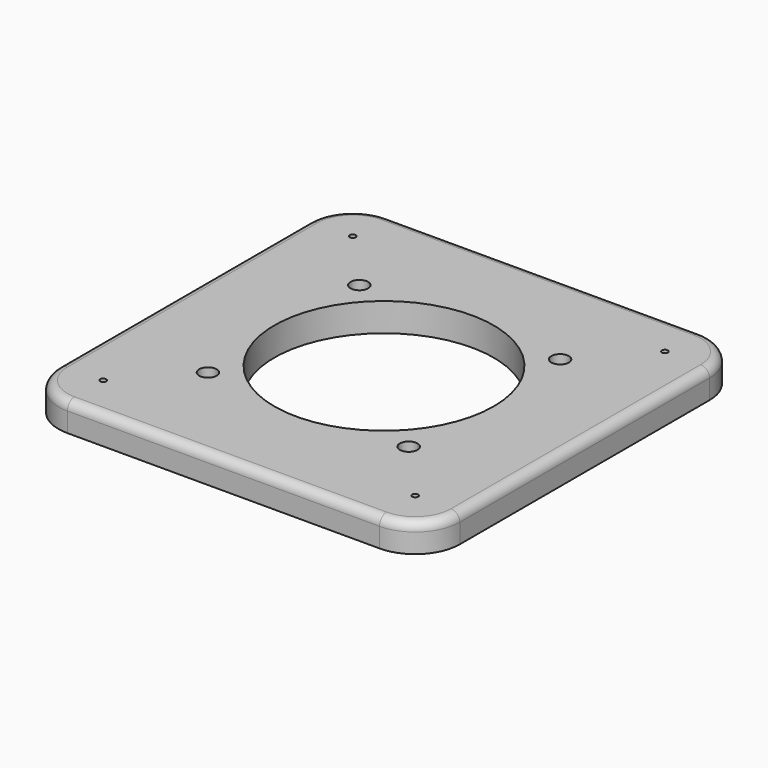
from build123d import *

# Parameters (mm, degrees)
F0_R     = 0.6858
F0_R_2   = 2
F0_R_3   = 25
F1_DEPTH = 6.47
F2_R     = 2.032


with BuildPart() as f1:
    # F0 (on Top) → F1 (new body)
    with BuildSketch(Plane.XY):
        with BuildLine():
            Line((35.567452, 45.626691), (-35.552548, 45.626691))
            ThreePointArc((-35.552548, 45.626691), (-42.736753, 42.650895), (-45.712548, 35.466691))
            Line((-45.712548, 35.466691), (-45.712548, -35.653309))
            ThreePointArc((-45.712548, -35.653309), (-42.736753, -42.837514), (-35.552548, -45.813309))
            Line((-35.552548, -45.813309), (35.567452, -45.813309))
            ThreePointArc((35.567452, -45.813309), (42.751657, -42.837514), (45.727452, -35.653309))
            Line((45.727452, -35.653309), (45.727452, 35.466691))
            ThreePointArc((45.727452, 35.466691), (42.751657, 42.650895), (35.567452, 45.626691))
        make_face()
        with Locations((-35.552548, -35.653309)):
            Circle(F0_R, mode=Mode.SUBTRACT)
        with Locations((-22.867128, -21.653564)):
            Circle(F0_R_2, mode=Mode.SUBTRACT)
        with Locations((35.567452, -35.653309)):
            Circle(F0_R, mode=Mode.SUBTRACT)
        with Locations((0.007452, -0.093309)):
            Circle(F0_R_3, mode=Mode.SUBTRACT)
        with Locations((22.882033, -21.653564)):
            Circle(F0_R_2, mode=Mode.SUBTRACT)
        with Locations((-22.867128, 21.466945)):
            Circle(F0_R_2, mode=Mode.SUBTRACT)
        with Locations((-35.552548, 35.466691)):
            Circle(F0_R, mode=Mode.SUBTRACT)
        with Locations((22.882033, 21.466945)):
            Circle(F0_R_2, mode=Mode.SUBTRACT)
        with Locations((35.567452, 35.466691)):
            Circle(F0_R, mode=Mode.SUBTRACT)
    extrude(amount=F1_DEPTH)

    # F2
    f2_edges = [f1.edges().sort_by_distance(p)[0] for p in [
        (-45.712548, -0.093309, 6.47),
    ]]
    fillet(f2_edges, radius=F2_R)


solid = f1.part
